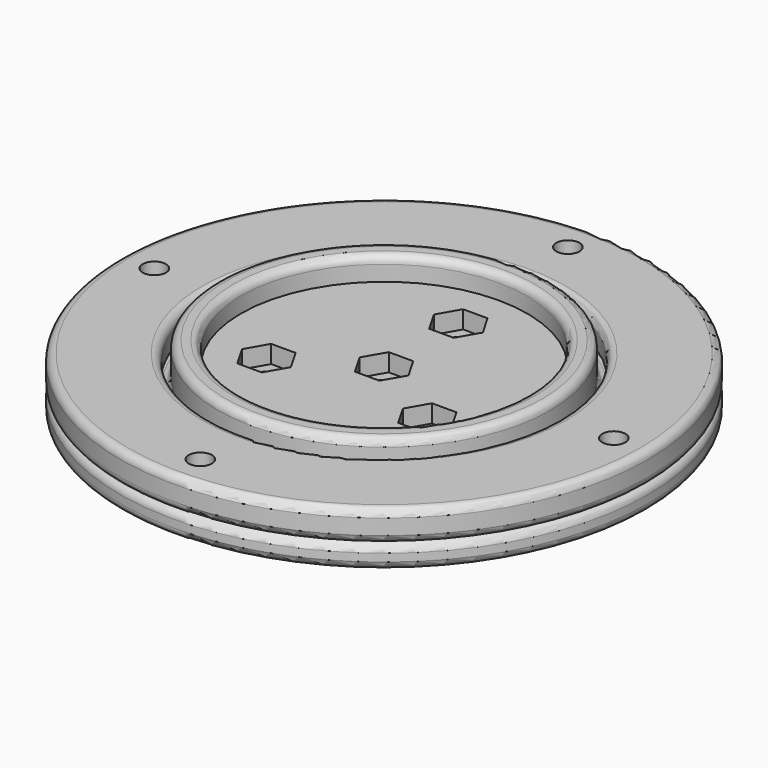
from build123d import *

# Parameters (mm, degrees)
F0_R      = 34.1
F0_R_2    = 0.9
F1_DEPTH  = 3
F2_R      = 1.5
F3_DEPTH  = 1
F4_R      = 21.5
F5_DEPTH  = 5.5
F6_R      = 18.5
F7_DEPTH  = 3
F8_R      = 1.5
F9_DEPTH  = 2.3
F10_DEPTH = 5.501
F11_R     = 34.1
F11_R_2   = 1.5
F11_R_3   = 22.5
F11_R_4   = 0.9
F12_DEPTH = 4
F13_R     = 1.5
F14_DEPTH = 2.3
F15_R     = 1
F16_R     = 1
F17_R     = 1


with BuildPart() as f1:
    # F0 (on Top) → F1 (new body)
    with BuildSketch(Plane.XY):
        Circle(F0_R)
        with Locations((0, -29.68)):
            Circle(F0_R_2, mode=Mode.SUBTRACT)
        with Locations((0, -24.2)):
            Circle(F0_R_2, mode=Mode.SUBTRACT)
        with Locations((-29.68, 0)):
            Circle(F0_R_2, mode=Mode.SUBTRACT)
        with Locations((-24.2, 0)):
            Circle(F0_R_2, mode=Mode.SUBTRACT)
        with Locations((24.2, 0)):
            Circle(F0_R_2, mode=Mode.SUBTRACT)
        with Locations((29.68, 0)):
            Circle(F0_R_2, mode=Mode.SUBTRACT)
        with Locations((0, 24.2)):
            Circle(F0_R_2, mode=Mode.SUBTRACT)
        with Locations((0, 29.68)):
            Circle(F0_R_2, mode=Mode.SUBTRACT)
    extrude(amount=F1_DEPTH)

    # F2 (on face) → F3 (cut)
    with BuildSketch(Plane.XY.offset(3)):
        with Locations((0, 24.2)):
            Circle(F2_R)
        with Locations((-24.2, 0)):
            Circle(F2_R)
        with Locations((0, -24.2)):
            Circle(F2_R)
        with Locations((24.2, 0)):
            Circle(F2_R)
    extrude(amount=-F3_DEPTH, mode=Mode.SUBTRACT)

    # F4 (on face) → F5 (join)
    with BuildSketch(Plane.XY.offset(3)):
        Circle(F4_R)
    extrude(amount=F5_DEPTH)

    # F6 (on face) → F7 (cut)
    with BuildSketch(Plane.XY.offset(8.5)):
        Circle(F6_R)
    extrude(amount=-F7_DEPTH, mode=Mode.SUBTRACT)

    # F8 (on face) → F9 (cut)
    with BuildSketch(Plane.XY.offset(5.5)):
        Polygon((-1.5790529862, 9.265), (1.5790529862, 9.265), (3.1581059725, 12), (1.5790529862, 14.735), (-1.5790529862, 14.735), (-3.1581059725, 12), align=None)
        with Locations((0, 12)):
            Circle(F8_R, mode=Mode.SUBTRACT)
        Polygon((-8.8132518592, -3.265), (-11.9713578316, -3.265), (-13.5504108179, -6), (-11.9713578316, -8.735), (-8.8132518592, -8.735), (-7.2341988729, -6), align=None)
        with Locations((-10.3923048454, -6)):
            Circle(F8_R, mode=Mode.SUBTRACT)
        Polygon((7.2341988729, -6), (8.8132518592, -8.735), (11.9713578316, -8.735), (13.5504108179, -6), (11.9713578316, -3.265), (8.8132518592, -3.265), align=None)
        with Locations((10.3923048454, -6)):
            Circle(F8_R, mode=Mode.SUBTRACT)
        Polygon((-1.5790529862, -2.735), (1.5790529862, -2.735), (3.1581059725, 0), (1.5790529862, 2.735), (-1.5790529862, 2.735), (-3.1581059725, 0), align=None)
        Circle(F8_R, mode=Mode.SUBTRACT)
    extrude(amount=-F9_DEPTH, mode=Mode.SUBTRACT)

    # F10 (cut, through all): faces of the model
    f10_faces = [f1.faces().sort_by_distance(p)[0] for p in [
        (0, 12, 5.5),
        (10.3923048454, -6, 5.5),
        (-10.3923048454, -6, 5.5),
        (0, 0, 5.5),
        (0, 0, 5.5),
        (0, 0, 5.5),
        (0, 0, 5.5),
    ]]
    extrude(f10_faces, amount=-F10_DEPTH, mode=Mode.SUBTRACT)

    # F15
    f15_edges = [f1.edges().sort_by_distance(p)[0] for p in [
        (-21.5, 0, 8.5),
        (-18.5, 0, 8.5),
    ]]
    fillet(f15_edges, radius=F15_R)

    # F17
    f17_edges = [f1.edges().sort_by_distance(p)[0] for p in [
        (-34.1, 0, 3),
        (-34.1, 0, 0),
        (-21.5, 0, 3),
    ]]
    fillet(f17_edges, radius=F17_R)


with BuildPart() as f12:
    # F11 (on face) → F12 (new body)
    with BuildSketch(Plane.XY.offset(3)):
        Circle(F11_R)
        with Locations((0, -29.68)):
            Circle(F11_R_2, mode=Mode.SUBTRACT)
        with Locations((0, -24.2)):
            Circle(F11_R_2, mode=Mode.SUBTRACT)
        with Locations((-29.68, 0)):
            Circle(F11_R_2, mode=Mode.SUBTRACT)
        with Locations((-24.2, 0)):
            Circle(F11_R_2, mode=Mode.SUBTRACT)
        Circle(F11_R_3, mode=Mode.SUBTRACT)
        with Locations((24.2, 0)):
            Circle(F11_R_2, mode=Mode.SUBTRACT)
        with Locations((29.68, 0)):
            Circle(F11_R_2, mode=Mode.SUBTRACT)
        with Locations((0, 24.2)):
            Circle(F11_R_2, mode=Mode.SUBTRACT)
        with Locations((0, 29.68)):
            Circle(F11_R_2, mode=Mode.SUBTRACT)
        with Locations((-24.2, 0)):
            Circle(F11_R_2)
        with Locations((0, 24.2)):
            Circle(F11_R_2)
        with Locations((24.2, 0)):
            Circle(F11_R_2)
        with Locations((0, -24.2)):
            Circle(F11_R_2)
        with Locations((0, 29.68)):
            Circle(F11_R_2)
        with Locations((0, 29.68)):
            Circle(F11_R_4, mode=Mode.SUBTRACT)
        with Locations((-29.68, 0)):
            Circle(F11_R_2)
        with Locations((-29.68, 0)):
            Circle(F11_R_4, mode=Mode.SUBTRACT)
        with Locations((0, -29.68)):
            Circle(F11_R_2)
        with Locations((0, -29.68)):
            Circle(F11_R_4, mode=Mode.SUBTRACT)
        with Locations((29.68, 0)):
            Circle(F11_R_2)
        with Locations((29.68, 0)):
            Circle(F11_R_4, mode=Mode.SUBTRACT)
    extrude(amount=F12_DEPTH)

    # F13 (on face) → F14 (cut)
    with BuildSketch(Plane.XY.offset(7)):
        with Locations((0, 29.68)):
            Circle(F13_R)
        with Locations((-29.68, 0)):
            Circle(F13_R)
        with Locations((0, -29.68)):
            Circle(F13_R)
        with Locations((29.68, 0)):
            Circle(F13_R)
    extrude(amount=-F14_DEPTH, mode=Mode.SUBTRACT)

    # F16
    f16_edges = [f12.edges().sort_by_distance(p)[0] for p in [
        (-22.5, 0, 3),
        (-22.5, 0, 7),
        (-34.1, 0, 7),
        (-34.1, 0, 3),
    ]]
    fillet(f16_edges, radius=F16_R)


solid = Compound([f1.part, f12.part])
